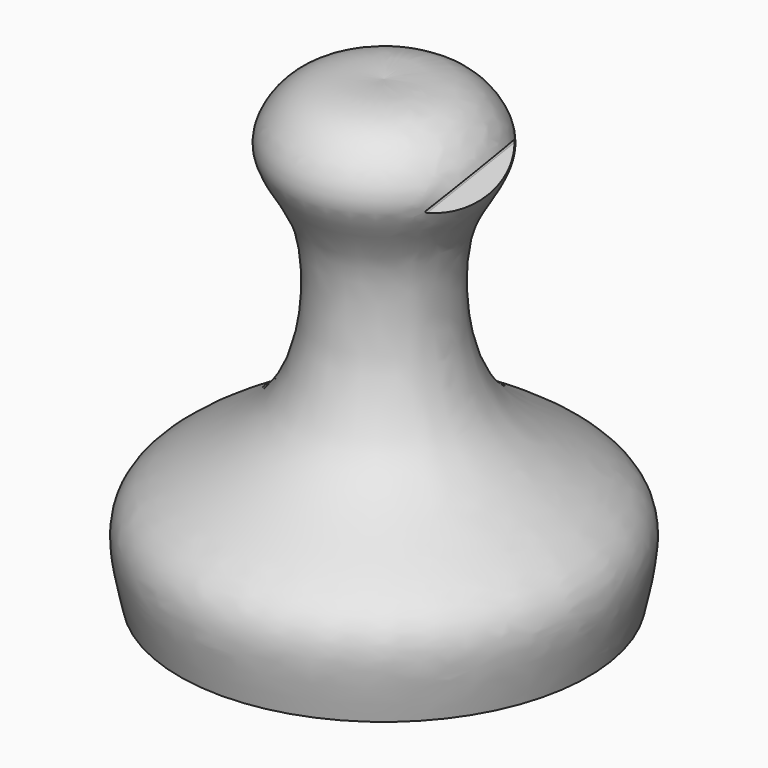
from build123d import *

# Parameters (mm, degrees)
F4_DEPTH = 25.4


with BuildPart() as f1:
    # F0 (on Right) → F1 (revolve)
    with BuildSketch(Plane.YZ):
        with BuildLine():
            Line((0, 57.15), (0, 0))
            Line((0, 0), (25.4, 0))
            add(Edge.make_bspline(
                [(25.4, 0), (26.4723256299, 4.9606971764), (28.6211804318, 12.577284252), (9.2115788749, 19.1583620388), (7.5184621892, 35.9929365466), (9.0247026487, 43.2231699218), (13.7513986841, 49.2130397008), (11.6198053885, 54.28721156), (7.4140153578, 57.4857358404), (2.3732369584, 57.3963116767), (0, 57.15)],
                knots=[0, 0, 0, 0, 0.1403992521, 0.3124015884, 0.4765816851, 0.5919187234, 0.7017041704, 0.7927919103, 0.8866335864, 1, 1, 1, 1], degree=3))
        make_face()
    revolve(axis=Axis((0, 0, 28.575), (0, 0, -1)))

    # F3 (on offset) → F4 (cut)
    with BuildSketch(Plane.YZ.offset(12.7)):
        with BuildLine():
            Line((12.4420020729, 46.0375), (12.4420020729, 47.9425))
            add(Edge.make_bspline(
                [(12.4420020729, 46.0375), (11.4020821617, 46.355), (8.3861514016, 46.99), (11.4020821617, 47.625), (12.4420020729, 47.9425)],
                knots=[0, 0, 0, 0, 0.5, 1, 1, 1, 1], degree=3))
        make_face()
    extrude(amount=-F4_DEPTH, mode=Mode.SUBTRACT)

    # F7 (on offset) → F9 section 0
    with BuildSketch(Plane.XZ.offset(25.4)):
        with BuildLine():
            Line((12.7, 43.4749359697), (14.9450640303, 45.72))
            Line((14.9450640303, 45.72), (12.7, 47.9650640303))
            Line((12.7, 47.9650640303), (10.6345410922, 45.8996051224))
            ThreePointArc((10.6345410922, 45.8996051224), (10.5601462146, 45.72), (10.6345410922, 45.5403948776))
            Line((10.6345410922, 45.5403948776), (12.7, 43.4749359697))
        make_face()
    # F8 (on offset) → F9 section 1
    with BuildSketch(Plane.XZ.offset(-25.4)):
        with BuildLine():
            Line((12.7, 51.7299359697), (14.9450640303, 53.975))
            Line((14.9450640303, 53.975), (12.7, 56.2200640303))
            Line((12.7, 56.2200640303), (10.6345410922, 54.1546051224))
            ThreePointArc((10.6345410922, 54.1546051224), (10.5601462146, 53.975), (10.6345410922, 53.7953948776))
            Line((10.6345410922, 53.7953948776), (12.7, 51.7299359697))
        make_face()
    loft(mode=Mode.SUBTRACT)


solid = f1.part
